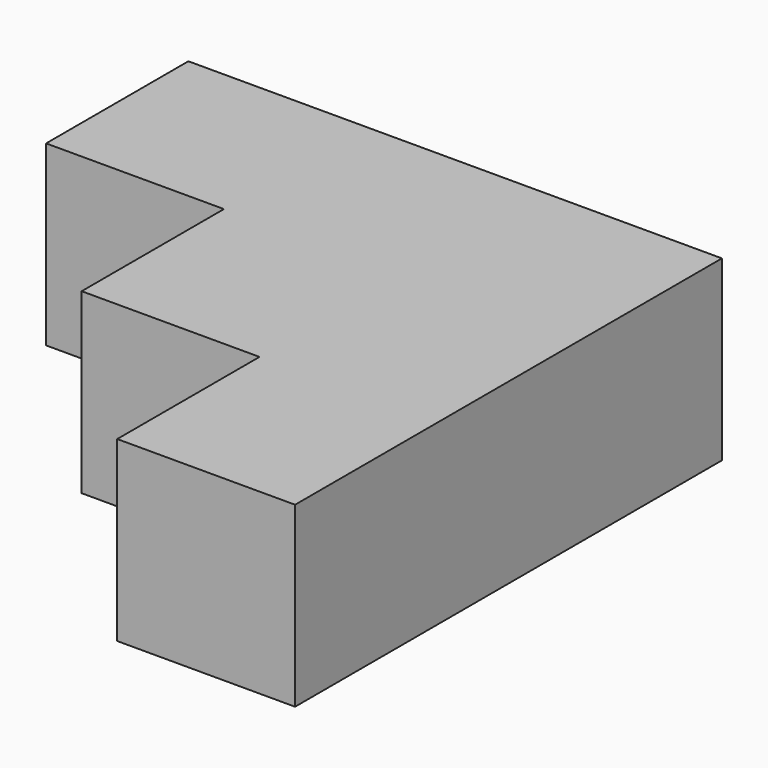
from build123d import *

# Parameters (mm, degrees)
F0_W     = 19.05
F0_H     = 19.05
F1_DEPTH = 19.05


with BuildPart() as f1:
    # F0 (on Top) → F1 (new body)
    with BuildSketch(Plane.XY):
        with Locations((-43.860393, 43.939057)):
            Rectangle(F0_W, F0_H)
        with Locations((-24.810393, 43.939057)):
            Rectangle(F0_W, F0_H)
        with Locations((-5.760393, 43.939057)):
            Rectangle(F0_W, F0_H)
        with Locations((-5.760393, 24.889057)):
            Rectangle(F0_W, F0_H)
        with Locations((-24.810393, 24.889057)):
            Rectangle(F0_W, F0_H)
        with Locations((-5.760393, 5.839057)):
            Rectangle(F0_W, F0_H)
    extrude(amount=F1_DEPTH)


solid = f1.part
